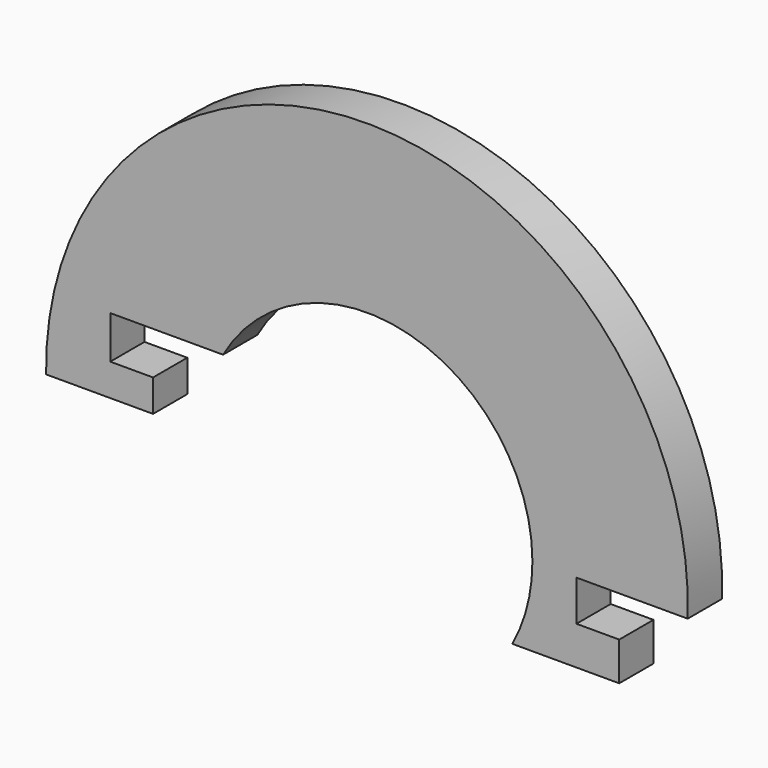
from build123d import *

# Parameters (mm, degrees)
F1_DEPTH = 1


with BuildPart() as f1:
    # F0 (on Front) → F1 (new body, symmetric)
    with BuildSketch(Plane.XZ):
        with BuildLine():
            ThreePointArc((14.980511, 0), (0.139336, 15.512418), (-15.009194, 0.3))
            Line((-15.009194, 0.3), (-10.009194, 0.3))
            Line((-10.009194, 0.3), (-10.009194, 1.8))
            Line((-10.009194, 1.8), (-12.009194, 1.8))
            Line((-12.009194, 1.8), (-12.009194, 3.8))
            Line((-12.009194, 3.8), (-6.7381, 3.8))
            ThreePointArc((-6.7381, 3.8), (1.956032, 7.46979), (7.722967, 0))
            Line((7.722967, 0), (9.780511, 0))
            Line((9.780511, 0), (14.980511, 0))
        make_face()
        with BuildLine():
            Line((9.780511, -1.9), (9.780511, 0))
            Line((9.780511, 0), (7.722967, 0))
            ThreePointArc((7.722967, 0), (7.485772, -1.908807), (6.78475, -3.7))
            Line((6.78475, -3.7), (11.780511, -3.7))
            Line((11.780511, -3.7), (11.780511, -1.9))
            Line((11.780511, -1.9), (9.780511, -1.9))
        make_face()
    extrude(amount=F1_DEPTH, both=True)


solid = f1.part
